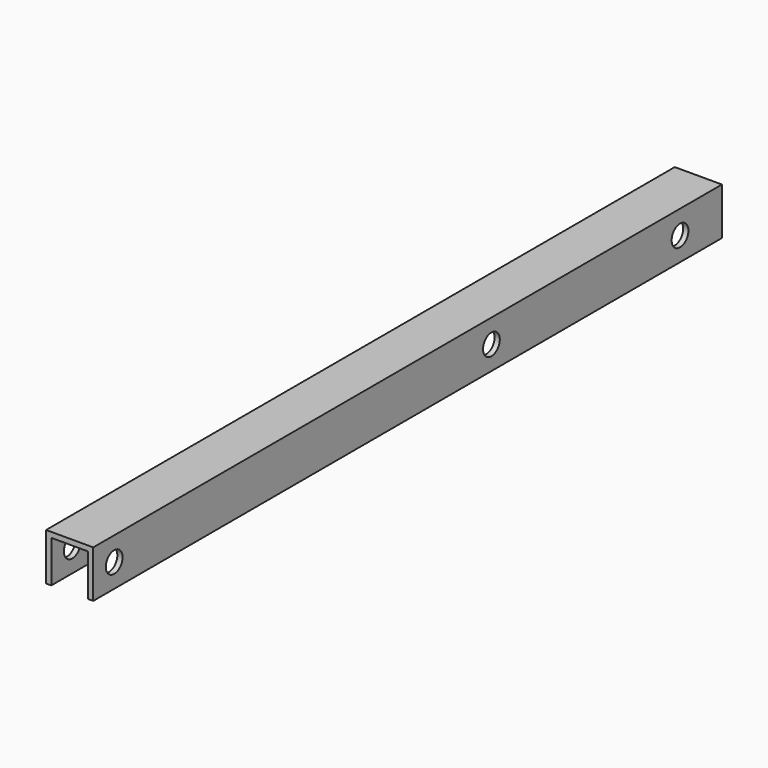
from build123d import *

# Parameters (mm, degrees)
PAD_DEPTH    = 75
SKETCH001_R  = 2
POCKET_DEPTH = 9.001


with BuildPart() as part:
    # Sketch → Pad (new body, symmetric)
    with BuildSketch(Plane.XZ):
        Polygon((-3.5, 0), (-3.5, 8), (3.5, 8), (3.5, 0), (4.5, 0), (4.5, 9), (-4.5, 9), (-4.5, 0), align=None)
    extrude(amount=PAD_DEPTH, both=True)

    # Sketch001 → Pocket (cut, through all)
    with BuildSketch(Plane(origin=(4.5, 0, 0), x_dir=(0, 0, 1), z_dir=(1, 0, 0))):
        with Locations((4.5, 70)):
            Circle(SKETCH001_R)
        with Locations((4.5, -65)):
            Circle(SKETCH001_R)
        with Locations((4.5, -20)):
            Circle(SKETCH001_R)
    extrude(amount=-POCKET_DEPTH, mode=Mode.SUBTRACT)


solid = part.part
